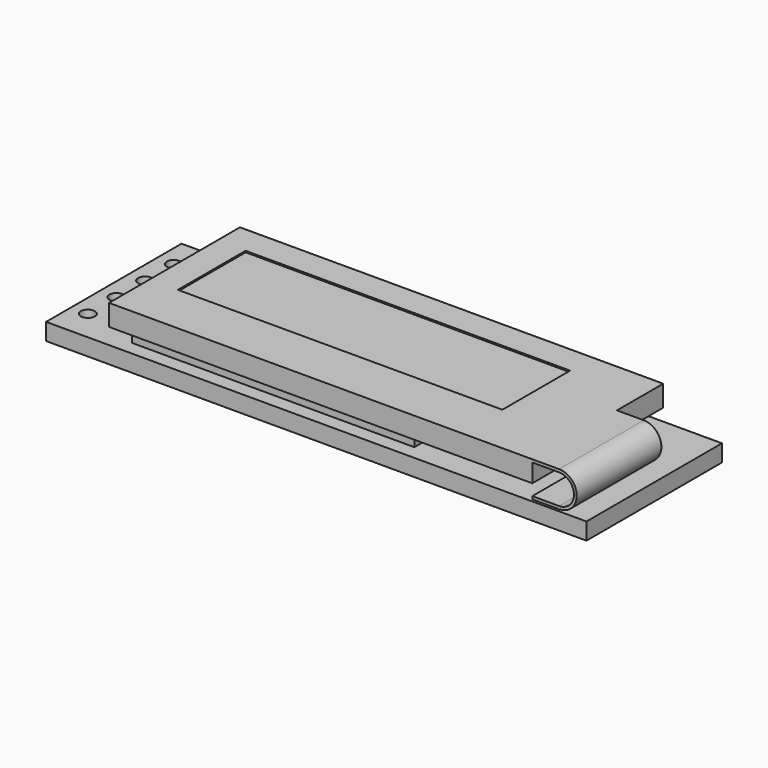
from build123d import *

# Parameters (mm, degrees)
SKETCH_W     = 38.3
SKETCH_H     = 12
SKETCH_R     = 0.5
PAD_DEPTH    = 1.2
SKETCH001_W  = 20
SKETCH001_H  = 10
PAD001_DEPTH = 1
SKETCH002_W  = 30
SKETCH002_H  = 11.6
PAD002_DEPTH = 1.5
PAD003_DEPTH = 7.5
SKETCH004_W  = 23
SKETCH004_H  = 6
POCKET_DEPTH = 0.1


with BuildPart() as part:
    # Sketch → Pad (new body)
    with BuildSketch(Plane.XY):
        with Locations((17.95, 3.8)):
            Rectangle(SKETCH_W, SKETCH_H)
        Circle(SKETCH_R, mode=Mode.SUBTRACT)
        with Locations((0, 2.54)):
            Circle(SKETCH_R, mode=Mode.SUBTRACT)
        with Locations((0, 5.08)):
            Circle(SKETCH_R, mode=Mode.SUBTRACT)
        with Locations((0, 7.62)):
            Circle(SKETCH_R, mode=Mode.SUBTRACT)
    extrude(amount=PAD_DEPTH)

    # Sketch001 (on Face10 of Pad) → Pad001 (join)
    with BuildSketch(Plane.XY.offset(1.2)):
        with Locations((14.1, 3.8)):
            Rectangle(SKETCH001_W, SKETCH001_H)
    extrude(amount=PAD001_DEPTH)

    # Sketch002 (on Face15 of Pad001) → Pad002 (join)
    with BuildSketch(Plane.XY.offset(2.2)):
        with Locations((18.1, 3.8)):
            Rectangle(SKETCH002_W, SKETCH002_H)
    extrude(amount=PAD002_DEPTH)

    # Sketch003 (on Face6 of Pad002) → Pad003 (join)
    with BuildSketch(Plane.XZ.offset(2)):
        with BuildLine():
            ThreePointArc((35, 1.2), (36.25, 2.45), (35, 3.7))
            Line((33.1, 3.7), (35, 3.7))
            Line((33.1, 3.7), (33.1, 3.5))
            Line((33.1, 3.5), (35, 3.5))
            ThreePointArc((35, 1.4), (36.05, 2.45), (35, 3.5))
            Line((33.1, 1.4), (35, 1.4))
            Line((33.1, 1.4), (33.1, 1.2))
            Line((33.1, 1.2), (35, 1.2))
        make_face()
    extrude(amount=-PAD003_DEPTH)

    # Sketch004 (on Face5 of Pad003) → Pocket (cut)
    with BuildSketch(Plane.XY.offset(3.7)):
        with Locations((16.6, 4.6)):
            Rectangle(SKETCH004_W, SKETCH004_H)
    extrude(amount=-POCKET_DEPTH, mode=Mode.SUBTRACT)


solid = part.part
